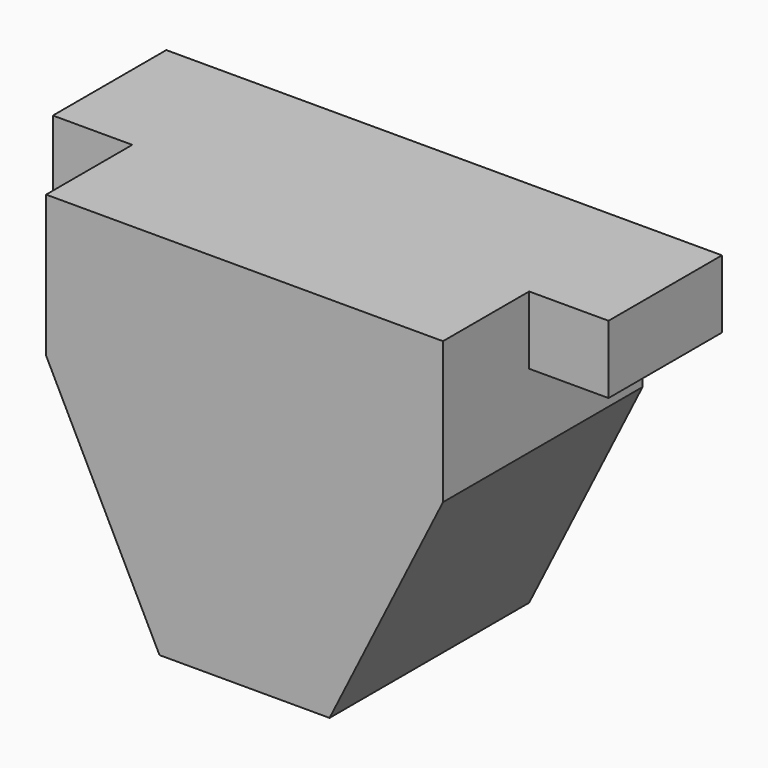
from build123d import *

# Parameters (mm, degrees)
F1_DEPTH = 44
F2_W     = 14
F2_H     = 19
F3_DEPTH = 65.001


with BuildPart() as f1:
    # F0 (on Front) → F1 (new body)
    with BuildSketch(Plane.XZ):
        Polygon((49, 23.644478), (-49, 23.644478), (-49, 11.644478), (-35, 11.644478), (-35, -1.355522), (-15, -41.355522), (15, -41.355522), (35, -1.355522), (35, 11.644478), (49, 11.644478), align=None)
    extrude(amount=F1_DEPTH)

    # F2 (on face) → F3 (cut, through all)
    with BuildSketch(Plane.XY.offset(23.644478)):
        with Locations((42, -34.5)):
            Rectangle(F2_W, F2_H)
        with Locations((-42, -34.5)):
            Rectangle(F2_W, F2_H)
    extrude(amount=-F3_DEPTH, mode=Mode.SUBTRACT)


solid = f1.part
